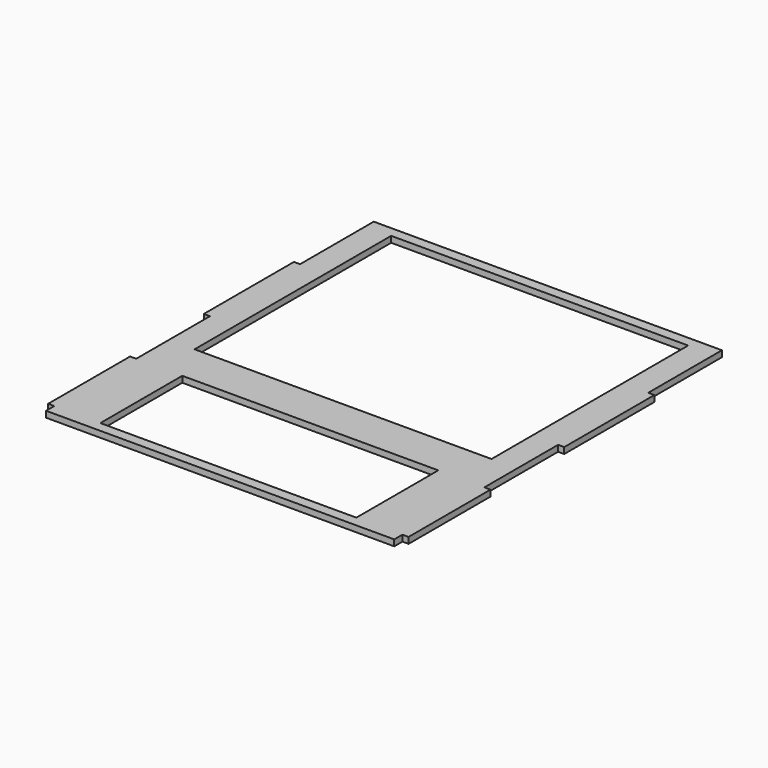
from build123d import *

# Parameters (mm, degrees)
F0_W     = 125
F0_H     = 50
F0_W_2   = 145
F0_H_2   = 120
F0_W_3   = 3
F0_H_3   = 55
F1_DEPTH = 3


with BuildPart() as f1:
    # F0 (on Top) → F1 (new body)
    with BuildSketch(Plane.XY):
        Polygon((85, 55), (85, 100), (-85, 100), (-85, 55), (-85, 0), (-85, -45), (-85, -95), (-85, -100), (85, -100), (85, -95), (85, -45), (85, 0), align=None)
        with Locations((0, -70)):
            Rectangle(F0_W, F0_H, mode=Mode.SUBTRACT)
        with Locations((0, 35)):
            Rectangle(F0_W_2, F0_H_2, mode=Mode.SUBTRACT)
        with Locations((86.5, 27.5)):
            Rectangle(F0_W_3, F0_H_3)
        with Locations((-86.5, 27.5)):
            Rectangle(F0_W_3, F0_H_3)
        with Locations((86.5, -70)):
            Rectangle(F0_W_3, F0_H)
        with Locations((-86.5, -70)):
            Rectangle(F0_W_3, F0_H)
    extrude(amount=F1_DEPTH)


solid = f1.part
